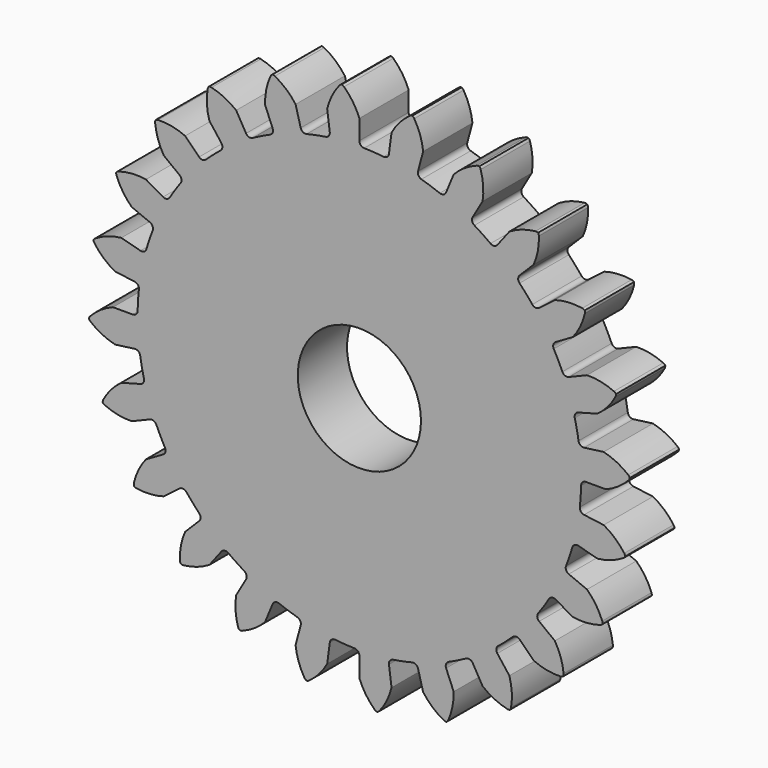
from build123d import *

# Parameters (mm, degrees)
F1_DEPTH = 6.35
F2_R     = 6.35
F3_DEPTH = 6.351


with BuildPart() as f1:
    # F0 (on Front) → F1 (new body)
    with BuildSketch(Plane.XZ):
        with BuildLine():
            ThreePointArc((-3.049415, 23.162608), (-3.146708, 22.791449), (-3.475829, 22.594208))
            ThreePointArc((-3.475829, 22.594208), (-4.459765, 22.420752), (-5.435182, 22.204468))
            ThreePointArc((-5.435182, 22.204468), (-7.348106, 21.646823), (-9.205204, 20.924718))
            ThreePointArc((-9.205204, 20.924718), (-10.110719, 20.502511), (-10.996922, 20.04114))
            ThreePointArc((-10.996922, 20.04114), (-12.700336, 19.007395), (-14.30726, 17.829243))
            ThreePointArc((-14.30726, 17.829243), (-15.072645, 17.187058), (-15.80924, 16.512042))
            ThreePointArc((-15.80924, 16.512042), (-17.187058, 15.072645), (-18.434299, 13.518735))
            ThreePointArc((-18.434299, 13.518735), (-19.007395, 12.700336), (-19.544184, 11.857676))
            ThreePointArc((-19.544184, 11.857676), (-20.502511, 10.110719), (-21.305072, 8.286948))
            ThreePointArc((-21.305072, 8.286948), (-21.646823, 7.348106), (-21.947224, 6.395228))
            ThreePointArc((-21.947224, 6.395228), (-22.420752, 4.459765), (-22.723939, 2.490419))
            ThreePointArc((-22.723939, 2.490419), (-22.811055, 1.495116), (-22.854598, 0.496957))
            ThreePointArc((-22.854598, 0.496957), (-22.811055, -1.495116), (-22.594208, -3.475829))
            ThreePointArc((-22.594208, -3.475829), (-22.420752, -4.459765), (-22.204468, -5.435182))
            ThreePointArc((-22.204468, -5.435182), (-21.646823, -7.348106), (-20.924718, -9.205204))
            ThreePointArc((-20.924718, -9.205204), (-20.502511, -10.110719), (-20.04114, -10.996922))
            ThreePointArc((-20.04114, -10.996922), (-19.007395, -12.700336), (-17.829243, -14.30726))
            ThreePointArc((-17.829243, -14.30726), (-17.187058, -15.072645), (-16.512042, -15.80924))
            ThreePointArc((-16.512042, -15.80924), (-15.072645, -17.187058), (-13.518735, -18.434299))
            ThreePointArc((-13.518735, -18.434299), (-12.700336, -19.007395), (-11.857676, -19.544184))
            ThreePointArc((-11.857676, -19.544184), (-10.110719, -20.502511), (-8.286948, -21.305072))
            ThreePointArc((-8.286948, -21.305072), (-7.348106, -21.646823), (-6.395228, -21.947224))
            ThreePointArc((-6.395228, -21.947224), (-4.459765, -22.420752), (-2.490419, -22.723939))
            ThreePointArc((-2.490419, -22.723939), (-1.495116, -22.811055), (-0.496957, -22.854598))
            ThreePointArc((-0.496957, -22.854598), (1.495116, -22.811055), (3.475829, -22.594208))
            ThreePointArc((3.475829, -22.594208), (4.459765, -22.420752), (5.435182, -22.204468))
            ThreePointArc((5.435182, -22.204468), (7.348106, -21.646823), (9.205204, -20.924718))
            ThreePointArc((9.205204, -20.924718), (10.110719, -20.502511), (10.996922, -20.04114))
            ThreePointArc((10.996922, -20.04114), (12.700336, -19.007395), (14.30726, -17.829243))
            ThreePointArc((14.30726, -17.829243), (15.072645, -17.187058), (15.80924, -16.512042))
            ThreePointArc((15.80924, -16.512042), (17.187058, -15.072645), (18.434299, -13.518735))
            ThreePointArc((18.434299, -13.518735), (19.007395, -12.700336), (19.544184, -11.857676))
            ThreePointArc((19.544184, -11.857676), (20.502511, -10.110719), (21.305072, -8.286948))
            ThreePointArc((21.305072, -8.286948), (21.646823, -7.348106), (21.947224, -6.395228))
            ThreePointArc((21.947224, -6.395228), (22.420752, -4.459765), (22.723939, -2.490419))
            ThreePointArc((22.723939, -2.490419), (22.811055, -1.495116), (22.854598, -0.496957))
            ThreePointArc((22.854598, -0.496957), (22.811055, 1.495116), (22.594208, 3.475829))
            ThreePointArc((22.594208, 3.475829), (22.420752, 4.459765), (22.204468, 5.435182))
            ThreePointArc((22.204468, 5.435182), (21.646823, 7.348106), (20.924718, 9.205204))
            ThreePointArc((20.924718, 9.205204), (20.502511, 10.110719), (20.04114, 10.996922))
            ThreePointArc((20.04114, 10.996922), (19.007395, 12.700336), (17.829243, 14.30726))
            ThreePointArc((17.829243, 14.30726), (17.187058, 15.072645), (16.512042, 15.80924))
            ThreePointArc((16.512042, 15.80924), (15.072645, 17.187058), (13.518735, 18.434299))
            ThreePointArc((13.518735, 18.434299), (12.700336, 19.007395), (11.857676, 19.544184))
            ThreePointArc((11.857676, 19.544184), (10.110719, 20.502511), (8.286948, 21.305072))
            ThreePointArc((8.286948, 21.305072), (7.348106, 21.646823), (6.395228, 21.947224))
            ThreePointArc((6.395228, 21.947224), (4.459765, 22.420752), (2.490419, 22.723939))
            ThreePointArc((2.490419, 22.723939), (1.495116, 22.811055), (0.496957, 22.854598))
            ThreePointArc((0.496957, 22.854598), (0.144906, 23.007193), (0, 23.362478))
            Line((0, 23.362478), (0, 25.4))
            ThreePointArc((0, 25.4), (-0.656941, 26.66338), (-1.578887, 27.748606))
            ThreePointArc((-1.578887, 27.748606), (-1.694044, 27.829949), (-1.827123, 27.876509))
            ThreePointArc((-1.827123, 27.876509), (-1.952986, 27.812977), (-2.05654, 27.717299))
            ThreePointArc((-2.05654, 27.717299), (-2.828949, 26.521019), (-3.315365, 25.182699))
            Line((-3.315365, 25.182699), (-3.049415, 23.162608))
        make_face()
        with BuildLine():
            ThreePointArc((-9.205204, 20.924718), (-7.348106, 21.646823), (-5.435182, 22.204468))
            ThreePointArc((-5.435182, 22.204468), (-5.814731, 22.260747), (-6.046654, 22.56642))
            Line((-6.046654, 22.56642), (-6.574004, 24.534516))
            ThreePointArc((-6.574004, 24.534516), (-7.535547, 25.584819), (-8.706956, 26.394449))
            ThreePointArc((-8.706956, 26.394449), (-8.839242, 26.443216), (-8.979837, 26.453745))
            ThreePointArc((-8.979837, 26.453745), (-9.084968, 26.359803), (-9.16023, 26.240583))
            ThreePointArc((-9.16023, 26.240583), (-9.5967, 24.885151), (-9.720159, 23.46654))
            Line((-9.720159, 23.46654), (-8.940433, 21.584115))
            ThreePointArc((-8.940433, 21.584115), (-8.938348, 21.200422), (-9.205204, 20.924718))
        make_face()
        with BuildLine():
            ThreePointArc((-14.30726, 17.829243), (-12.700336, 19.007395), (-10.996922, 20.04114))
            ThreePointArc((-10.996922, 20.04114), (-11.378104, 19.997267), (-11.681239, 20.232499))
            Line((-11.681239, 20.232499), (-12.7, 21.997045))
            ThreePointArc((-12.7, 21.997045), (-13.900617, 22.762694), (-15.24166, 23.241554))
            ThreePointArc((-15.24166, 23.241554), (-15.38206, 23.254421), (-15.520589, 23.228203))
            ThreePointArc((-15.520589, 23.228203), (-15.597824, 23.110252), (-15.639665, 22.975615))
            ThreePointArc((-15.639665, 22.975615), (-15.710451, 21.553402), (-15.46254, 20.151175))
            Line((-15.46254, 20.151175), (-14.222175, 18.5347))
            ThreePointArc((-14.222175, 18.5347), (-14.120854, 18.16462), (-14.30726, 17.829243))
        make_face()
        with BuildLine():
            ThreePointArc((-18.434299, 13.518735), (-17.187058, 15.072645), (-15.80924, 16.512042))
            ThreePointArc((-15.80924, 16.512042), (-16.166078, 16.371007), (-16.519766, 16.519766))
            Line((-16.519766, 16.519766), (-17.960512, 17.960512))
            ThreePointArc((-17.960512, 17.960512), (-19.318384, 18.38933), (-20.737669, 18.504785))
            ThreePointArc((-20.737669, 18.504785), (-20.876616, 18.480876), (-21.003639, 18.419697))
            ThreePointArc((-21.003639, 18.419697), (-21.047714, 18.285775), (-21.053283, 18.144897))
            ThreePointArc((-21.053283, 18.144897), (-20.753561, 16.752824), (-20.151175, 15.46254))
            Line((-20.151175, 15.46254), (-18.5347, 14.222175))
            ThreePointArc((-18.5347, 14.222175), (-18.341047, 13.89093), (-18.434299, 13.518735))
        make_face()
        with BuildLine():
            ThreePointArc((-21.305072, 8.286948), (-20.502511, 10.110719), (-19.544184, 11.857676))
            ThreePointArc((-19.544184, 11.857676), (-19.852361, 11.629089), (-20.232499, 11.681239))
            Line((-20.232499, 11.681239), (-21.997045, 12.7))
            ThreePointArc((-21.997045, 12.7), (-23.419635, 12.762763), (-24.820441, 12.506946))
            ThreePointArc((-24.820441, 12.506946), (-24.948465, 12.447889), (-25.055326, 12.355919))
            ThreePointArc((-25.055326, 12.355919), (-25.063238, 12.215153), (-25.032155, 12.077633))
            ThreePointArc((-25.032155, 12.077633), (-24.382351, 10.810568), (-23.46654, 9.720159))
            Line((-23.46654, 9.720159), (-21.584115, 8.940433))
            ThreePointArc((-21.584115, 8.940433), (-21.311328, 8.670596), (-21.305072, 8.286948))
        make_face()
        with BuildLine():
            ThreePointArc((-22.723939, 2.490419), (-22.420752, 4.459765), (-21.947224, 6.395228))
            ThreePointArc((-21.947224, 6.395228), (-22.185738, 6.094669), (-22.56642, 6.046654))
            Line((-22.56642, 6.046654), (-24.534516, 6.574004))
            ThreePointArc((-24.534516, 6.574004), (-25.924876, 6.266434), (-27.211741, 5.656779))
            ThreePointArc((-27.211741, 5.656779), (-27.320117, 5.5666), (-27.399534, 5.450106))
            ThreePointArc((-27.399534, 5.450106), (-27.370743, 5.312089), (-27.305126, 5.1873))
            ThreePointArc((-27.305126, 5.1873), (-26.349523, 4.13159), (-25.182699, 3.315365))
            Line((-25.182699, 3.315365), (-23.162608, 3.049415))
            ThreePointArc((-23.162608, 3.049415), (-22.829278, 2.859375), (-22.723939, 2.490419))
        make_face()
        with BuildLine():
            ThreePointArc((3.049415, 23.162608), (2.859375, 22.829278), (2.490419, 22.723939))
            ThreePointArc((2.490419, 22.723939), (4.459765, 22.420752), (6.395228, 21.947224))
            ThreePointArc((6.395228, 21.947224), (6.094669, 22.185738), (6.046654, 22.56642))
            Line((6.046654, 22.56642), (6.574004, 24.534516))
            ThreePointArc((6.574004, 24.534516), (6.266434, 25.924876), (5.656779, 27.211741))
            ThreePointArc((5.656779, 27.211741), (5.5666, 27.320117), (5.450106, 27.399534))
            ThreePointArc((5.450106, 27.399534), (5.312089, 27.370743), (5.1873, 27.305126))
            ThreePointArc((5.1873, 27.305126), (4.13159, 26.349523), (3.315365, 25.182699))
            Line((3.315365, 25.182699), (3.049415, 23.162608))
        make_face()
        with BuildLine():
            ThreePointArc((-22.594208, -3.475829), (-22.811055, -1.495116), (-22.854598, 0.496957))
            ThreePointArc((-22.854598, 0.496957), (-23.007193, 0.144906), (-23.362478, 0))
            Line((-23.362478, 0), (-25.4, 0))
            ThreePointArc((-25.4, 0), (-26.66338, -0.656941), (-27.748606, -1.578887))
            ThreePointArc((-27.748606, -1.578887), (-27.829949, -1.694044), (-27.876509, -1.827123))
            ThreePointArc((-27.876509, -1.827123), (-27.812977, -1.952986), (-27.717299, -2.05654))
            ThreePointArc((-27.717299, -2.05654), (-26.521019, -2.828949), (-25.182699, -3.315365))
            Line((-25.182699, -3.315365), (-23.162608, -3.049415))
            ThreePointArc((-23.162608, -3.049415), (-22.791449, -3.146708), (-22.594208, -3.475829))
        make_face()
        with BuildLine():
            ThreePointArc((8.940433, 21.584115), (8.670596, 21.311328), (8.286948, 21.305072))
            ThreePointArc((8.286948, 21.305072), (10.110719, 20.502511), (11.857676, 19.544184))
            ThreePointArc((11.857676, 19.544184), (11.629089, 19.852361), (11.681239, 20.232499))
            Line((11.681239, 20.232499), (12.7, 21.997045))
            ThreePointArc((12.7, 21.997045), (12.762763, 23.419635), (12.506946, 24.820441))
            ThreePointArc((12.506946, 24.820441), (12.447889, 24.948465), (12.355919, 25.055326))
            ThreePointArc((12.355919, 25.055326), (12.215153, 25.063238), (12.077633, 25.032155))
            ThreePointArc((12.077633, 25.032155), (10.810568, 24.382351), (9.720159, 23.46654))
            Line((9.720159, 23.46654), (8.940433, 21.584115))
        make_face()
        with BuildLine():
            ThreePointArc((-20.924718, -9.205204), (-21.646823, -7.348106), (-22.204468, -5.435182))
            ThreePointArc((-22.204468, -5.435182), (-22.260747, -5.814731), (-22.56642, -6.046654))
            Line((-22.56642, -6.046654), (-24.534516, -6.574004))
            ThreePointArc((-24.534516, -6.574004), (-25.584819, -7.535547), (-26.394449, -8.706956))
            ThreePointArc((-26.394449, -8.706956), (-26.443216, -8.839242), (-26.453745, -8.979837))
            ThreePointArc((-26.453745, -8.979837), (-26.359803, -9.084968), (-26.240583, -9.16023))
            ThreePointArc((-26.240583, -9.16023), (-24.885151, -9.5967), (-23.46654, -9.720159))
            Line((-23.46654, -9.720159), (-21.584115, -8.940433))
            ThreePointArc((-21.584115, -8.940433), (-21.200422, -8.938348), (-20.924718, -9.205204))
        make_face()
        with BuildLine():
            ThreePointArc((14.222175, 18.5347), (13.89093, 18.341047), (13.518735, 18.434299))
            ThreePointArc((13.518735, 18.434299), (15.072645, 17.187058), (16.512042, 15.80924))
            ThreePointArc((16.512042, 15.80924), (16.371007, 16.166078), (16.519766, 16.519766))
            Line((16.519766, 16.519766), (17.960512, 17.960512))
            ThreePointArc((17.960512, 17.960512), (18.38933, 19.318384), (18.504785, 20.737669))
            ThreePointArc((18.504785, 20.737669), (18.480876, 20.876616), (18.419697, 21.003639))
            ThreePointArc((18.419697, 21.003639), (18.285775, 21.047714), (18.144897, 21.053283))
            ThreePointArc((18.144897, 21.053283), (16.752824, 20.753561), (15.46254, 20.151175))
            Line((15.46254, 20.151175), (14.222175, 18.5347))
        make_face()
        with BuildLine():
            ThreePointArc((-17.829243, -14.30726), (-19.007395, -12.700336), (-20.04114, -10.996922))
            ThreePointArc((-20.04114, -10.996922), (-19.997267, -11.378104), (-20.232499, -11.681239))
            Line((-20.232499, -11.681239), (-21.997045, -12.7))
            ThreePointArc((-21.997045, -12.7), (-22.762694, -13.900617), (-23.241554, -15.24166))
            ThreePointArc((-23.241554, -15.24166), (-23.254421, -15.38206), (-23.228203, -15.520589))
            ThreePointArc((-23.228203, -15.520589), (-23.110252, -15.597824), (-22.975615, -15.639665))
            ThreePointArc((-22.975615, -15.639665), (-21.553402, -15.710451), (-20.151175, -15.46254))
            Line((-20.151175, -15.46254), (-18.5347, -14.222175))
            ThreePointArc((-18.5347, -14.222175), (-18.16462, -14.120854), (-17.829243, -14.30726))
        make_face()
        with BuildLine():
            ThreePointArc((18.5347, 14.222175), (18.16462, 14.120854), (17.829243, 14.30726))
            ThreePointArc((17.829243, 14.30726), (19.007395, 12.700336), (20.04114, 10.996922))
            ThreePointArc((20.04114, 10.996922), (19.997267, 11.378104), (20.232499, 11.681239))
            Line((20.232499, 11.681239), (21.997045, 12.7))
            ThreePointArc((21.997045, 12.7), (22.762694, 13.900617), (23.241554, 15.24166))
            ThreePointArc((23.241554, 15.24166), (23.254421, 15.38206), (23.228203, 15.520589))
            ThreePointArc((23.228203, 15.520589), (23.110252, 15.597824), (22.975615, 15.639665))
            ThreePointArc((22.975615, 15.639665), (21.553402, 15.710451), (20.151175, 15.46254))
            Line((20.151175, 15.46254), (18.5347, 14.222175))
        make_face()
        with BuildLine():
            ThreePointArc((-13.518735, -18.434299), (-15.072645, -17.187058), (-16.512042, -15.80924))
            ThreePointArc((-16.512042, -15.80924), (-16.371007, -16.166078), (-16.519766, -16.519766))
            Line((-16.519766, -16.519766), (-17.960512, -17.960512))
            ThreePointArc((-17.960512, -17.960512), (-18.38933, -19.318384), (-18.504785, -20.737669))
            ThreePointArc((-18.504785, -20.737669), (-18.480876, -20.876616), (-18.419697, -21.003639))
            ThreePointArc((-18.419697, -21.003639), (-18.285775, -21.047714), (-18.144897, -21.053283))
            ThreePointArc((-18.144897, -21.053283), (-16.752824, -20.753561), (-15.46254, -20.151175))
            Line((-15.46254, -20.151175), (-14.222175, -18.5347))
            ThreePointArc((-14.222175, -18.5347), (-13.89093, -18.341047), (-13.518735, -18.434299))
        make_face()
        with BuildLine():
            ThreePointArc((21.584115, 8.940433), (21.200422, 8.938348), (20.924718, 9.205204))
            ThreePointArc((20.924718, 9.205204), (21.646823, 7.348106), (22.204468, 5.435182))
            ThreePointArc((22.204468, 5.435182), (22.260747, 5.814731), (22.56642, 6.046654))
            Line((22.56642, 6.046654), (24.534516, 6.574004))
            ThreePointArc((24.534516, 6.574004), (25.584819, 7.535547), (26.394449, 8.706956))
            ThreePointArc((26.394449, 8.706956), (26.443216, 8.839242), (26.453745, 8.979837))
            ThreePointArc((26.453745, 8.979837), (26.359803, 9.084968), (26.240583, 9.16023))
            ThreePointArc((26.240583, 9.16023), (24.885151, 9.5967), (23.46654, 9.720159))
            Line((23.46654, 9.720159), (21.584115, 8.940433))
        make_face()
        with BuildLine():
            ThreePointArc((-8.286948, -21.305072), (-10.110719, -20.502511), (-11.857676, -19.544184))
            ThreePointArc((-11.857676, -19.544184), (-11.629089, -19.852361), (-11.681239, -20.232499))
            Line((-11.681239, -20.232499), (-12.7, -21.997045))
            ThreePointArc((-12.7, -21.997045), (-12.762763, -23.419635), (-12.506946, -24.820441))
            ThreePointArc((-12.506946, -24.820441), (-12.447889, -24.948465), (-12.355919, -25.055326))
            ThreePointArc((-12.355919, -25.055326), (-12.215153, -25.063238), (-12.077633, -25.032155))
            ThreePointArc((-12.077633, -25.032155), (-10.810568, -24.382351), (-9.720159, -23.46654))
            Line((-9.720159, -23.46654), (-8.940433, -21.584115))
            ThreePointArc((-8.940433, -21.584115), (-8.670596, -21.311328), (-8.286948, -21.305072))
        make_face()
        with BuildLine():
            ThreePointArc((23.162608, 3.049415), (22.791449, 3.146708), (22.594208, 3.475829))
            ThreePointArc((22.594208, 3.475829), (22.811055, 1.495116), (22.854598, -0.496957))
            ThreePointArc((22.854598, -0.496957), (23.007193, -0.144906), (23.362478, 0))
            Line((23.362478, 0), (25.4, 0))
            ThreePointArc((25.4, 0), (26.66338, 0.656941), (27.748606, 1.578887))
            ThreePointArc((27.748606, 1.578887), (27.829949, 1.694044), (27.876509, 1.827123))
            ThreePointArc((27.876509, 1.827123), (27.812977, 1.952986), (27.717299, 2.05654))
            ThreePointArc((27.717299, 2.05654), (26.521019, 2.828949), (25.182699, 3.315365))
            Line((25.182699, 3.315365), (23.162608, 3.049415))
        make_face()
        with BuildLine():
            ThreePointArc((-2.490419, -22.723939), (-4.459765, -22.420752), (-6.395228, -21.947224))
            ThreePointArc((-6.395228, -21.947224), (-6.094669, -22.185738), (-6.046654, -22.56642))
            Line((-6.046654, -22.56642), (-6.574004, -24.534516))
            ThreePointArc((-6.574004, -24.534516), (-6.266434, -25.924876), (-5.656779, -27.211741))
            ThreePointArc((-5.656779, -27.211741), (-5.5666, -27.320117), (-5.450106, -27.399534))
            ThreePointArc((-5.450106, -27.399534), (-5.312089, -27.370743), (-5.1873, -27.305126))
            ThreePointArc((-5.1873, -27.305126), (-4.13159, -26.349523), (-3.315365, -25.182699))
            Line((-3.315365, -25.182699), (-3.049415, -23.162608))
            ThreePointArc((-3.049415, -23.162608), (-2.859375, -22.829278), (-2.490419, -22.723939))
        make_face()
        with BuildLine():
            ThreePointArc((23.162608, -3.049415), (22.829278, -2.859375), (22.723939, -2.490419))
            ThreePointArc((22.723939, -2.490419), (22.420752, -4.459765), (21.947224, -6.395228))
            ThreePointArc((21.947224, -6.395228), (22.185738, -6.094669), (22.56642, -6.046654))
            Line((22.56642, -6.046654), (24.534516, -6.574004))
            ThreePointArc((24.534516, -6.574004), (25.924876, -6.266434), (27.211741, -5.656779))
            ThreePointArc((27.211741, -5.656779), (27.320117, -5.5666), (27.399534, -5.450106))
            ThreePointArc((27.399534, -5.450106), (27.370743, -5.312089), (27.305126, -5.1873))
            ThreePointArc((27.305126, -5.1873), (26.349523, -4.13159), (25.182699, -3.315365))
            Line((25.182699, -3.315365), (23.162608, -3.049415))
        make_face()
        with BuildLine():
            ThreePointArc((3.475829, -22.594208), (1.495116, -22.811055), (-0.496957, -22.854598))
            ThreePointArc((-0.496957, -22.854598), (-0.144906, -23.007193), (0, -23.362478))
            Line((0, -23.362478), (0, -25.4))
            ThreePointArc((0, -25.4), (0.656941, -26.66338), (1.578887, -27.748606))
            ThreePointArc((1.578887, -27.748606), (1.694044, -27.829949), (1.827123, -27.876509))
            ThreePointArc((1.827123, -27.876509), (1.952986, -27.812977), (2.05654, -27.717299))
            ThreePointArc((2.05654, -27.717299), (2.828949, -26.521019), (3.315365, -25.182699))
            Line((3.315365, -25.182699), (3.049415, -23.162608))
            ThreePointArc((3.049415, -23.162608), (3.146708, -22.791449), (3.475829, -22.594208))
        make_face()
        with BuildLine():
            ThreePointArc((21.584115, -8.940433), (21.311328, -8.670596), (21.305072, -8.286948))
            ThreePointArc((21.305072, -8.286948), (20.502511, -10.110719), (19.544184, -11.857676))
            ThreePointArc((19.544184, -11.857676), (19.852361, -11.629089), (20.232499, -11.681239))
            Line((20.232499, -11.681239), (21.997045, -12.7))
            ThreePointArc((21.997045, -12.7), (23.419635, -12.762763), (24.820441, -12.506946))
            ThreePointArc((24.820441, -12.506946), (24.948465, -12.447889), (25.055326, -12.355919))
            ThreePointArc((25.055326, -12.355919), (25.063238, -12.215153), (25.032155, -12.077633))
            ThreePointArc((25.032155, -12.077633), (24.382351, -10.810568), (23.46654, -9.720159))
            Line((23.46654, -9.720159), (21.584115, -8.940433))
        make_face()
        with BuildLine():
            ThreePointArc((9.205204, -20.924718), (7.348106, -21.646823), (5.435182, -22.204468))
            ThreePointArc((5.435182, -22.204468), (5.814731, -22.260747), (6.046654, -22.56642))
            Line((6.046654, -22.56642), (6.574004, -24.534516))
            ThreePointArc((6.574004, -24.534516), (7.535547, -25.584819), (8.706956, -26.394449))
            ThreePointArc((8.706956, -26.394449), (8.839242, -26.443216), (8.979837, -26.453745))
            ThreePointArc((8.979837, -26.453745), (9.084968, -26.359803), (9.16023, -26.240583))
            ThreePointArc((9.16023, -26.240583), (9.5967, -24.885151), (9.720159, -23.46654))
            Line((9.720159, -23.46654), (8.940433, -21.584115))
            ThreePointArc((8.940433, -21.584115), (8.938348, -21.200422), (9.205204, -20.924718))
        make_face()
        with BuildLine():
            ThreePointArc((18.5347, -14.222175), (18.341047, -13.89093), (18.434299, -13.518735))
            ThreePointArc((18.434299, -13.518735), (17.187058, -15.072645), (15.80924, -16.512042))
            ThreePointArc((15.80924, -16.512042), (16.166078, -16.371007), (16.519766, -16.519766))
            Line((16.519766, -16.519766), (17.960512, -17.960512))
            ThreePointArc((17.960512, -17.960512), (19.318384, -18.38933), (20.737669, -18.504785))
            ThreePointArc((20.737669, -18.504785), (20.876616, -18.480876), (21.003639, -18.419697))
            ThreePointArc((21.003639, -18.419697), (21.047714, -18.285775), (21.053283, -18.144897))
            ThreePointArc((21.053283, -18.144897), (20.753561, -16.752824), (20.151175, -15.46254))
            Line((20.151175, -15.46254), (18.5347, -14.222175))
        make_face()
        with BuildLine():
            ThreePointArc((14.30726, -17.829243), (12.700336, -19.007395), (10.996922, -20.04114))
            ThreePointArc((10.996922, -20.04114), (11.378104, -19.997267), (11.681239, -20.232499))
            Line((11.681239, -20.232499), (12.7, -21.997045))
            ThreePointArc((12.7, -21.997045), (13.900617, -22.762694), (15.24166, -23.241554))
            ThreePointArc((15.24166, -23.241554), (15.38206, -23.254421), (15.520589, -23.228203))
            ThreePointArc((15.520589, -23.228203), (15.597824, -23.110252), (15.639665, -22.975615))
            ThreePointArc((15.639665, -22.975615), (15.710451, -21.553402), (15.46254, -20.151175))
            Line((15.46254, -20.151175), (14.222175, -18.5347))
            ThreePointArc((14.222175, -18.5347), (14.120854, -18.16462), (14.30726, -17.829243))
        make_face()
    extrude(amount=F1_DEPTH)

    # F2 (on face) → F3 (cut, through all)
    with BuildSketch(Plane.XZ.offset(6.35)):
        Circle(F2_R)
    extrude(amount=-F3_DEPTH, mode=Mode.SUBTRACT)


solid = f1.part
